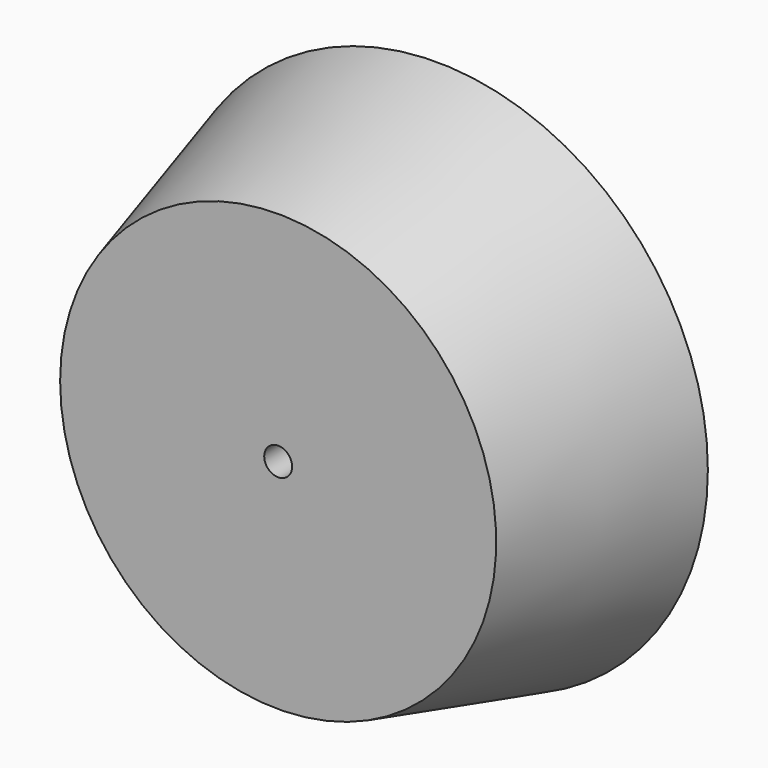
from build123d import *


with BuildPart() as f1:
    # F0 (on Top) → F1 (revolve)
    with BuildSketch(Plane.XY):
        with BuildLine():
            Line((-1.422331, -7.222601), (-4.279831, -7.222601))
            Line((-4.279831, -7.222601), (-4.279831, -2.142601))
            ThreePointArc((-4.279831, -2.142601), (-16.039632, -1.897535), (-22.554543, 7.895774))
            Line((-22.554543, 7.895774), (-27.634543, 7.895774))
            Line((-27.634543, 7.895774), (-22.222404, -12.302601))
            Line((-22.222404, -12.302601), (-1.422331, -12.302601))
            Line((-1.422331, -12.302601), (-1.422331, -7.222601))
        make_face()
    revolve(axis=Axis((0, 2.955156, 0), (0, 1, 0)))


solid = f1.part
